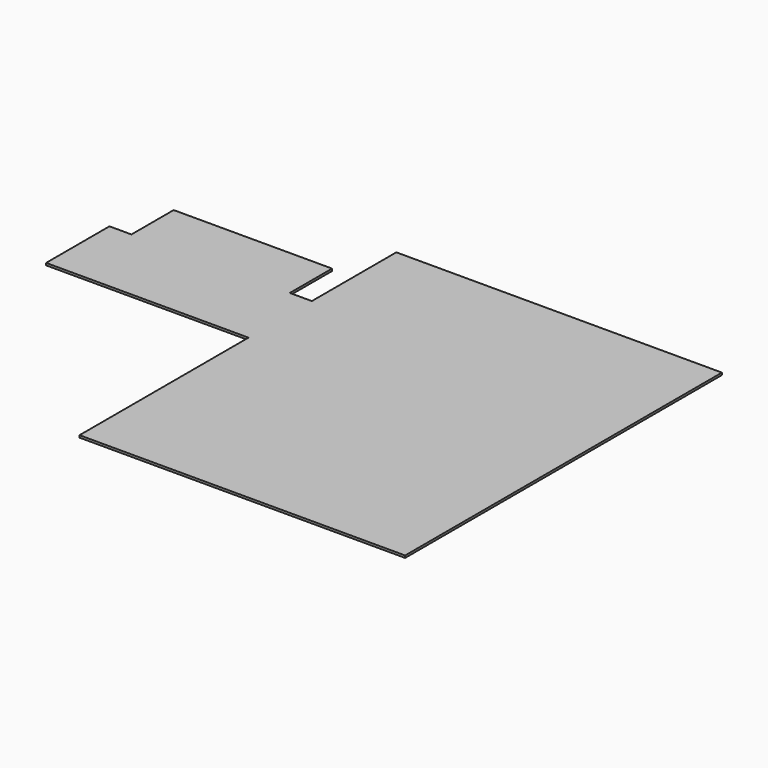
from build123d import *

# Parameters (mm, degrees)
F0_W     = 1800
F0_H     = 600
F1_DEPTH = 25


with BuildPart() as f1:
    # F0 (on Top) → F1 (new body)
    with BuildSketch(Plane.XY):
        with BuildLine():
            Line((0, 2400), (0, 0))
            Line((0, 0), (3700, 0))
            Line((3700, 0), (3700, 4500))
            Line((3700, 4500), (0, 4500))
            Line((0, 4500), (0, 3300))
            Line((0, 3300), (-250, 3300))
            Line((-250, 3300), (-2050, 3300))
            Line((-2050, 3300), (-2300, 3300))
            Line((-2300, 3300), (-2300, 3100))
            ThreePointArc((-2300, 3100), (-1875.735931, 2924.264069), (-1700, 2500))
            Line((-1700, 2500), (-2300, 2500))
            Line((-2300, 2500), (-2300, 2400))
            Line((-2300, 2400), (0, 2400))
        make_face()
        with BuildLine():
            Line((-2300, 3100), (-2300, 2500))
            Line((-2300, 2500), (-1700, 2500))
            ThreePointArc((-1700, 2500), (-1875.735931, 2924.264069), (-2300, 3100))
        make_face()
        with Locations((-1150, 3600)):
            Rectangle(F0_W, F0_H)
    extrude(amount=F1_DEPTH)


solid = f1.part
